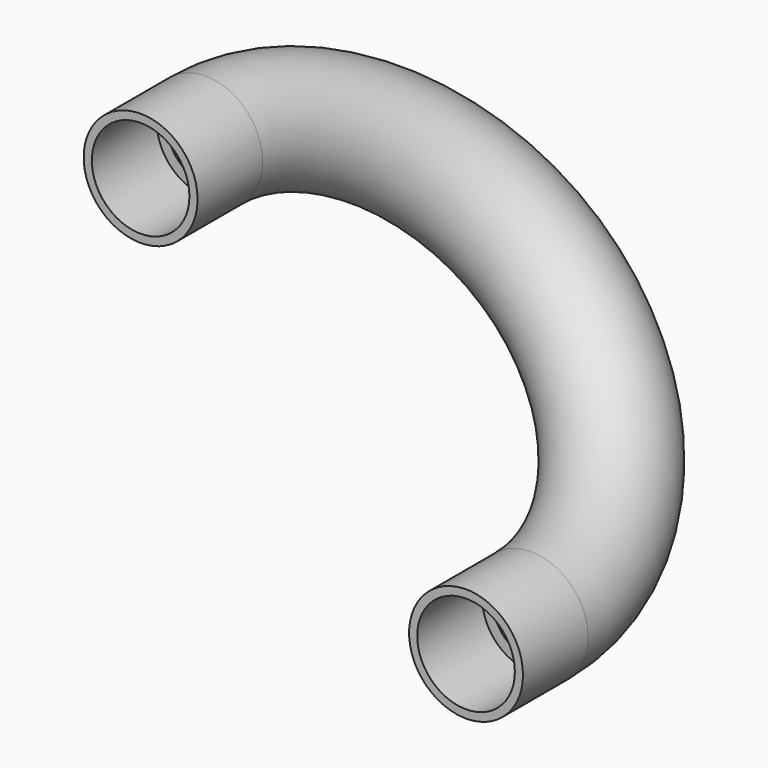
from build123d import *

# Parameters (mm, degrees)
F3_R     = 8.89
F3_R_2   = 5.9436
F5_R     = 7.62
F5_R_2   = 5.9436
F7_DEPTH = 12.7
F6_R     = 7.62
F6_R_2   = 5.9436
F8_DEPTH = 12.7


with BuildPart() as f4:
    # F4: sweep along a path in F2
    with BuildLine(Plane(origin=(0, 0, 0), x_dir=(0.7208469435, 0, -0.6930942822), z_dir=(0.6930942822, 0, 0.7208469435))) as f4_path:
        Line((0, 0), (0, 12.7))
        ThreePointArc((0, 12.7), (35.2363278, 47.9363278), (70.4726556, 12.7))
        Line((70.4726556, 12.7), (70.4726556, 0))
    # F3 (on Front) → F4 (sweep)
    with BuildSketch(Plane.XZ):
        Circle(F3_R)
        Circle(F3_R_2, mode=Mode.SUBTRACT)
    sweep(path=f4_path.line)

    # F5 (on face) → F7 (cut)
    with BuildSketch(Plane.XZ):
        Circle(F5_R)
        Circle(F5_R_2, mode=Mode.SUBTRACT)
    extrude(amount=-F7_DEPTH, mode=Mode.SUBTRACT)

    # F6 (on face) → F8 (cut)
    with BuildSketch(Plane.XZ):
        with Locations((50.7999983902, -48.8441946486)):
            Circle(F6_R)
        with Locations((50.7999983902, -48.8441946486)):
            Circle(F6_R_2, mode=Mode.SUBTRACT)
    extrude(amount=-F8_DEPTH, mode=Mode.SUBTRACT)


solid = f4.part
